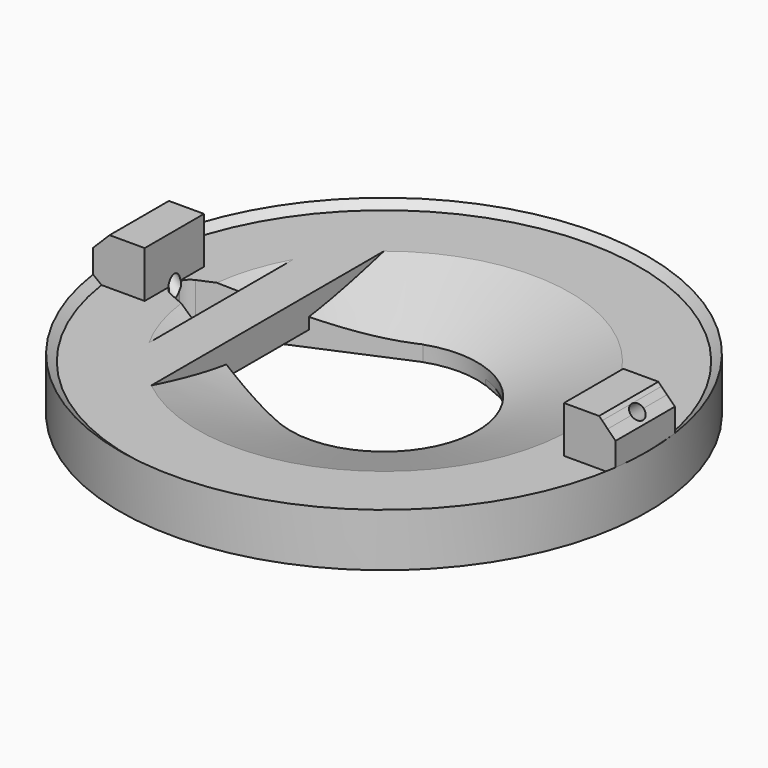
from build123d import *

# Parameters (mm, degrees)
F3_DEPTH  = 0.35
F4_DEPTH  = 5
F5_W      = 3.3258799294
F5_H      = 4.7764119825
F6_DEPTH  = 6
F8_START  = 1
F7_W      = 3
F7_H      = 20.7612029826
F8_DEPTH  = 2
F12_DEPTH = 2.9


with BuildPart() as f1:
    # F0 (on Front) → F1 (revolve)
    with BuildSketch(Plane.XZ):
        Polygon((-6, 1), (-12, 3), (-16.4613984525, 3), (-17, 3), (-17, 0), (-6, 0), align=None)
        Polygon((-17, 3), (-16.4613984525, 3), (-17, 3.4264510032), align=None)
    revolve(axis=Axis((0, 0, 0.3460962325), (0, 0, -1)))

    # F2 (on Top) → F3 (cut)
    with BuildSketch(Plane.XY):
        with BuildLine():
            Line((12.9273881117, 1), (2.0039374787, 5.6685529396))
            Line((2.0039374787, 5.6685529396), (2.0039374787, -5.6685529396))
            Line((2.0039374787, -5.6685529396), (12.9273881117, -1))
            ThreePointArc((12.9273881117, -1), (13.5875019991, 0), (12.9273881117, 1))
        make_face()
    extrude(amount=F3_DEPTH, mode=Mode.SUBTRACT)

    # F2 (on Top) → F4 (cut)
    with BuildSketch(Plane.XY):
        with BuildLine():
            Line((-2.0039374787, -5.6685529396), (-2.0039374787, 5.6685529396))
            Line((-2.0039374787, 5.6685529396), (-12.9273881117, 1))
            ThreePointArc((-12.9273881117, 1), (-13.5875019991, 0), (-12.9273881117, -1))
            Line((-12.9273881117, -1), (-2.0039374787, -5.6685529396))
        make_face()
    extrude(amount=F4_DEPTH, mode=Mode.SUBTRACT)

    # F5 (on Top) → F6 (join)
    with BuildSketch(Plane.XY):
        with Locations((-15.1684732898, 0)):
            Rectangle(F5_W, F5_H)
        with Locations((15.1684732898, 0)):
            Rectangle(F5_W, F5_H)
    extrude(amount=F6_DEPTH)

    # F7 (on Top) → F8 (join)
    with BuildSketch(Plane.XY.offset(F8_START)):
        with Locations((-9, 0)):
            Rectangle(F7_W, F7_H)
    extrude(amount=F8_DEPTH)

    # F9 (on Front) → F10 (revolve, cut)
    with BuildSketch(Plane.XZ):
        Polygon((8.2996124042, 0.1023378446), (9, 0), (16.3225417007, 5.4439346324), (15.9651809612, 5.801295372), align=None)
        Polygon((15.9651809612, 5.801295372), (16.3225417007, 5.4439346324), (17.0113109052, 5.9559992515), (16.7064689267, 6.3524049994), align=None)
    revolve(axis=Axis((13.0056554526, 0, 2.9779996257), (0.802516509, 0, 0.5966299128)), mode=Mode.SUBTRACT)

    # F9 (on Front) → F11 (revolve, cut)
    with BuildSketch(Plane.XZ):
        Polygon((-16.7743696364, 6.1416257066), (-17.127923027, 5.7880723161), (-16.5531635221, 5.2133128111), (-16.1996101315, 5.5668662017), align=None)
        Polygon((-16.1996101315, 5.5668662017), (-16.5531635221, 5.2133128111), (-12.5092434766, 1.1693927656), (-12.155690086, 1.5229461562), align=None)
    revolve(axis=Axis((-14.4650298612, 0, 3.8322859314), (-0.7071067812, 0, 0.7071067812)), mode=Mode.SUBTRACT)

    # F9 (on Front) → F12 (cut, symmetric)
    with BuildSketch(Plane.XZ):
        Polygon((-16.5531635221, 5.2133128111), (-17.127923027, 5.7880723161), (-16.7743696364, 6.1416257066), (-16.1996101315, 5.5668662017), (-15.1436466258, 6.6228297073), (-17.0755104627, 8.5546935443), (-19.2268886647, 6.4033153423), (-17.2588344452, 4.507641888), align=None)
        Polygon((-16.7743696364, 6.1416257066), (-17.127923027, 5.7880723161), (-16.5531635221, 5.2133128111), (-16.1996101315, 5.5668662017), align=None)
        Polygon((15.9651809612, 5.801295372), (16.3225417007, 5.4439346324), (17.0113109052, 5.9559992515), (16.7064689267, 6.3524049994), align=None)
        Polygon((17.0113109052, 5.9559992515), (16.3225417007, 5.4439346324), (17.2588344452, 4.507641888), (19.2268886647, 6.4033153423), (17.0755104627, 8.5546935443), (15.1436466258, 6.6228297073), (15.9651809612, 5.801295372), (16.7064689267, 6.3524049994), align=None)
    extrude(amount=F12_DEPTH, both=True, mode=Mode.SUBTRACT)


solid = f1.part
